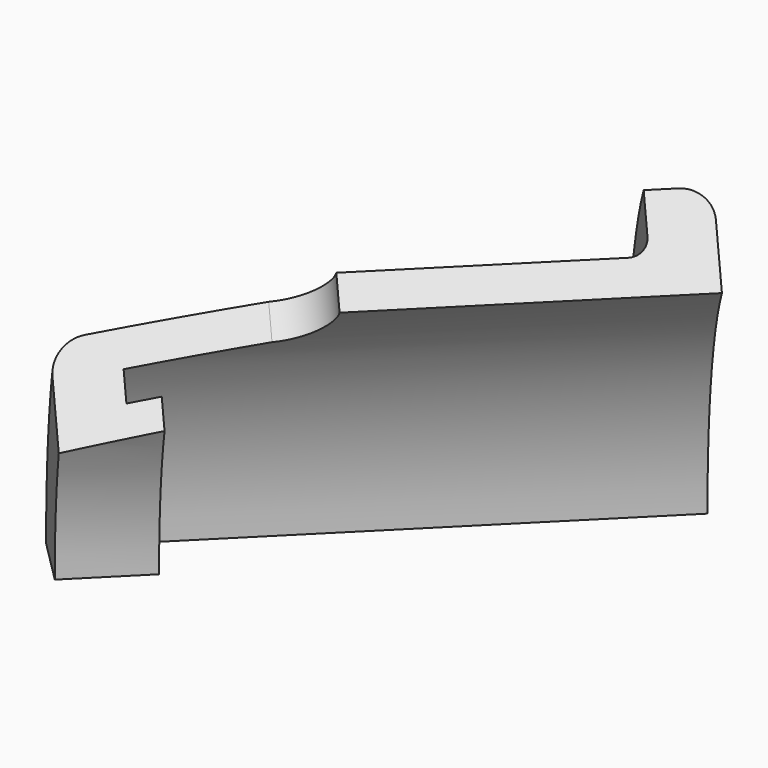
from build123d import *

# Parameters (mm, degrees)
BOX007_W               = 100
BOX007_H               = 100
BOX007_DEPTH           = 100
BOX007_PLACEMENT_ANGLE = 135
BOX006_W               = 200
BOX006_H               = 100
BOX006_DEPTH           = 100
BOX006_PLACEMENT_ANGLE = 135
BOX005_W               = 100
BOX005_H               = 100
BOX005_DEPTH           = 100
BOX004_W               = 20
BOX004_H               = 20
BOX004_DEPTH           = 80
BOX003_W               = 20
BOX003_H               = 20
BOX003_DEPTH           = 80
BOX002_W               = 10
BOX002_H               = 25
BOX002_DEPTH           = 35
BOX002_PITCH_ANGLE     = -15
BOX001_W               = 10
BOX001_H               = 25
BOX001_DEPTH           = 35
BOX001_PITCH_ANGLE     = 15
BOX_W                  = 20
BOX_H                  = 25
BOX_DEPTH              = 35
CYLINDER005_R          = 10
CYLINDER005_DEPTH      = 180
CYLINDER005_ROLL_ANGLE = 90
CYLINDER004_R          = 54
CYLINDER004_DEPTH      = 100
CYLINDER003_R          = 59
CYLINDER003_DEPTH      = 10
CYLINDER002_R          = 64
CYLINDER002_DEPTH      = 85
CYLINDER001_R          = 70
CYLINDER001_DEPTH      = 90
CYLINDER_R             = 80
CYLINDER_DEPTH         = 10
FILLET_R               = 3
FILLET001_R            = 5
FILLET002_R            = 5
CUT009_ROLL_ANGLE      = 90
CUT009_PITCH_ANGLE     = -45
CUT009_PLACEMENT_ANGLE = -45


with BuildPart() as cube004:
    # Box007 → Box007 (new body)
    with BuildSketch(Plane.XY):
        with Locations((50, 50)):
            Rectangle(BOX007_W, BOX007_H)
    extrude(amount=BOX007_DEPTH)


with BuildPart() as cube004_1:
    # Box007 placement: moved
    add(cube004.part.rotate(Axis((0, 0, 0), (0, 0, -1)), BOX007_PLACEMENT_ANGLE))


with BuildPart() as cube003:
    # Box006 → Box006 (new body)
    with BuildSketch(Plane.XY):
        with Locations((100, 50)):
            Rectangle(BOX006_W, BOX006_H)
    extrude(amount=BOX006_DEPTH)


with BuildPart() as cube003_1:
    # Box006 placement: moved
    add(cube003.part.moved(Location((71, -71, 0))).rotate(Axis((71, -71, 0), (0, 0, 1)), BOX006_PLACEMENT_ANGLE))


with BuildPart() as cube002:
    # Box005 → Box005 (new body)
    with BuildSketch(Plane.XY):
        with Locations((50, 50)):
            Rectangle(BOX005_W, BOX005_H)
    extrude(amount=BOX005_DEPTH)


with BuildPart() as tab_cut_l:
    # Box004 → Box004 (new body)
    with BuildSketch(Plane(origin=(-83, -10, 20), x_dir=(1, 0, 0), z_dir=(0, 0, 1))):
        with Locations((10, 10)):
            Rectangle(BOX004_W, BOX004_H)
    extrude(amount=BOX004_DEPTH)


with BuildPart() as tab_cut_r:
    # Box003 → Box003 (new body)
    with BuildSketch(Plane(origin=(63, -10, 20), x_dir=(1, 0, 0), z_dir=(0, 0, 1))):
        with Locations((10, 10)):
            Rectangle(BOX003_W, BOX003_H)
    extrude(amount=BOX003_DEPTH)


with BuildPart() as cube001:
    # Box002 → Box002 (new body)
    with BuildSketch(Plane.XY):
        with Locations((5, 12.5)):
            Rectangle(BOX002_W, BOX002_H)
    extrude(amount=BOX002_DEPTH)


with BuildPart() as cube001_1:
    # Box002 pitch: moved
    add(cube001.part.rotate(Axis((0, 0, 0), (0, 1, 0)), BOX002_PITCH_ANGLE))


with BuildPart() as cube001_2:
    # Box002 placement: moved
    add(cube001_1.part.moved(Location((-9.95, 48, 64))))


with BuildPart() as cube:
    # Box001 → Box001 (new body)
    with BuildSketch(Plane.XY):
        with Locations((5, 12.5)):
            Rectangle(BOX001_W, BOX001_H)
    extrude(amount=BOX001_DEPTH)


with BuildPart() as cube_1:
    # Box001 pitch: moved
    add(cube.part.rotate(Axis((0, 0, 0), (0, 1, 0)), BOX001_PITCH_ANGLE))


with BuildPart() as cube_2:
    # Box001 placement: moved
    add(cube_1.part.moved(Location((0, 48, 65))))


with BuildPart() as bearing_slot:
    # Box → Box (new body)
    with BuildSketch(Plane(origin=(-10, 48, 65), x_dir=(1, 0, 0), z_dir=(0, 0, 1))):
        with Locations((10, 12.5)):
            Rectangle(BOX_W, BOX_H)
    extrude(amount=BOX_DEPTH)


with BuildPart() as bearing_holes:
    # Cylinder005 → Cylinder005 (new body)
    with BuildSketch(Plane.XY):
        Circle(CYLINDER005_R)
    extrude(amount=CYLINDER005_DEPTH)


with BuildPart() as bearing_holes_1:
    # Cylinder005 roll: moved
    add(bearing_holes.part.rotate(Axis((0, 0, 0), (1, 0, 0)), CYLINDER005_ROLL_ANGLE))


with BuildPart() as bearing_holes_2:
    # Cylinder005 placement: moved
    add(bearing_holes_1.part.moved(Location((0, 90, 65))))


with BuildPart() as through_hole:
    # Cylinder004 → Cylinder004 (new body)
    with BuildSketch(Plane.XY):
        Circle(CYLINDER004_R)
    extrude(amount=CYLINDER004_DEPTH)


with BuildPart() as inner_lip:
    # Cylinder003 → Cylinder003 (new body)
    with BuildSketch(Plane.XY.offset(80)):
        Circle(CYLINDER003_R)
    extrude(amount=CYLINDER003_DEPTH)


with BuildPart() as inner_hole:
    # Cylinder002 → Cylinder002 (new body)
    with BuildSketch(Plane.XY):
        Circle(CYLINDER002_R)
    extrude(amount=CYLINDER002_DEPTH)


with BuildPart() as body_cylinder:
    # Cylinder001 → Cylinder001 (new body)
    with BuildSketch(Plane.XY.offset(5)):
        Circle(CYLINDER001_R)
    extrude(amount=CYLINDER001_DEPTH)


with BuildPart() as cut010:
    # Cylinder → Cylinder (new body)
    with BuildSketch(Plane.XY):
        Circle(CYLINDER_R)
    extrude(amount=CYLINDER_DEPTH)

    # Fusion: union Body_Cylinder
    add(body_cylinder.part)

    # Cut: cut Inner_Hole
    add(inner_hole.part, mode=Mode.SUBTRACT)

    # Fusion001: union Inner_Lip
    add(inner_lip.part)

    # Cut001: cut Through_Hole
    add(through_hole.part, mode=Mode.SUBTRACT)

    # Fillet
    fillet_edges = [cut010.edges().sort_by_distance(p)[0] for p in [
        (-70, 0, 10),
    ]]
    fillet(fillet_edges, radius=FILLET_R)

    # Fillet001
    fillet001_edges = [cut010.edges().sort_by_distance(p)[0] for p in [
        (-80, 0, 0),
    ]]
    fillet(fillet001_edges, radius=FILLET001_R)

    # Fillet002
    fillet002_edges = [cut010.edges().sort_by_distance(p)[0] for p in [
        (-70, 0, 95),
    ]]
    fillet(fillet002_edges, radius=FILLET002_R)

    # Cut002: cut Bearing_Holes
    add(bearing_holes_2.part, mode=Mode.SUBTRACT)

    # Cut003: cut Bearing_Slot
    add(bearing_slot.part, mode=Mode.SUBTRACT)

    # Cut004: cut Cube
    add(cube_2.part, mode=Mode.SUBTRACT)

    # Cut005: cut Cube001
    add(cube001_2.part, mode=Mode.SUBTRACT)

    # Cut006: cut Tab_Cut_R
    add(tab_cut_r.part, mode=Mode.SUBTRACT)

    # Cut007: cut Tab_Cut_L
    add(tab_cut_l.part, mode=Mode.SUBTRACT)

    # Cut008: cut Cube002
    add(cube002.part, mode=Mode.SUBTRACT)

    # Cut009: cut Cube003
    add(cube003_1.part, mode=Mode.SUBTRACT)


with BuildPart() as cut010_1:
    # Cut009 roll: moved
    add(cut010.part.rotate(Axis((0, 0, 0), (1, 0, 0)), CUT009_ROLL_ANGLE))


with BuildPart() as cut010_2:
    # Cut009 pitch: moved
    add(cut010_1.part.rotate(Axis((0, 0, 0), (0, 1, 0)), CUT009_PITCH_ANGLE))


with BuildPart() as cut010_3:
    # Cut009 placement: moved
    add(cut010_2.part.rotate(Axis((0, 0, 0), (0, 0, 1)), CUT009_PLACEMENT_ANGLE))

    # Cut010: cut Cube004
    add(cube004_1.part, mode=Mode.SUBTRACT)


solid = cut010_3.part
